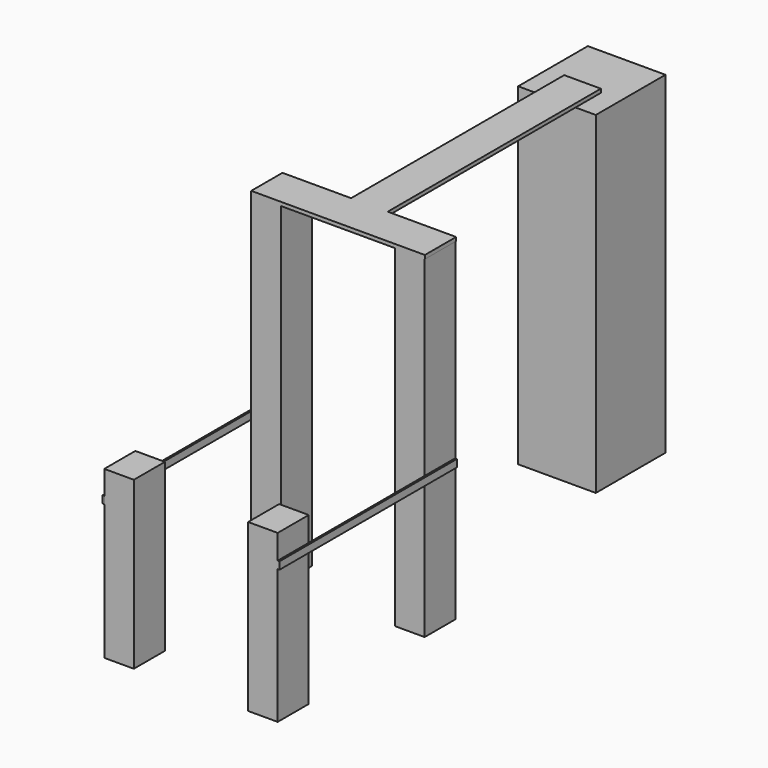
from build123d import *

# Parameters (mm, degrees)
F0_W     = 533.4
F0_H     = 598.17
F1_DEPTH = 1143
F0_W_2   = 203.2
F0_H_2   = 266.7
F2_DEPTH = 1143
F3_W     = 203.2
F3_H     = 266.7
F4_DEPTH = 25.4
F6_W     = 1258.3018835068
F6_H     = 50.8
F6_W_2   = 265.6981164932
F7_DEPTH = 12.7
F5_W     = 1257.3
F5_H     = 50.8
F5_W_2   = 266.7
F8_DEPTH = 12.7


with BuildPart() as f1:
    # F0 (on Top) → F1 (new body)
    with BuildSketch(Plane.XY):
        with Locations((595.63, 3441.827)):
            Rectangle(F0_W, F0_H)
    extrude(amount=F1_DEPTH)

    # F2#3 (add): a face of the model
    f2_3_faces = [f1.faces().sort_by_distance(p)[0] for p in [
        (595.63, 3441.827, 1143),
    ]]
    extrude(f2_3_faces, amount=F2_DEPTH)



with BuildPart() as f1b:
    # F0 (on Top) → F1, piece 2 (new body)
    with BuildSketch(Plane.XY):
        with Locations((1089.66, 1395.222)):
            Rectangle(F0_W_2, F0_H_2)
    extrude(amount=F1_DEPTH)

    # F2#2 (add): a face of the model
    f2_2_faces = [f1b.faces().sort_by_distance(p)[0] for p in [
        (1089.66, 1395.222, 1143),
    ]]
    extrude(f2_2_faces, amount=F2_DEPTH)


with BuildPart() as f1c:
    # F0 (on Top) → F1, piece 3 (new body)
    with BuildSketch(Plane.XY):
        with Locations((101.6, 1395.222)):
            Rectangle(F0_W_2, F0_H_2)
    extrude(amount=F1_DEPTH)

    # F2 (add): a face of the model
    f2_faces = [f1c.faces().sort_by_distance(p)[0] for p in [
        (101.6, 1395.222, 1143),
    ]]
    extrude(f2_faces, amount=F2_DEPTH)


with BuildPart() as f1d:
    # F0 (on Top) → F1, piece 4 (new body)
    with BuildSketch(Plane.XY):
        with Locations((101.6, 133.35)):
            Rectangle(F0_W_2, F0_H_2)
    extrude(amount=F1_DEPTH)


with BuildPart() as f1e:
    # F0 (on Top) → F1, piece 5 (new body)
    with BuildSketch(Plane.XY):
        with Locations((1089.66, 133.35)):
            Rectangle(F0_W_2, F0_H_2)
    extrude(amount=F1_DEPTH)


with BuildPart() as f1_1:
    add(f1.part)

    add(f1b.part)  # F4 merges F1b

    add(f1c.part)  # F4 merges F1c
    # F3 (on face) → F4 (join)
    with BuildSketch(Plane.XY.offset(2286)):
        Polygon((203.2, 1528.572), (203.2, 1261.872), (1192.8584575653, 1261.872), (1192.8584575653, 1530.0824642181), (723.0812907219, 1530.0824642181), (723.0812907219, 3360.0566387177), (471.4600145817, 3360.0566387177), (471.4600145817, 1530.0824642181), (0, 1530.0824642181), (0, 1528.572), align=None)
        with Locations((101.6, 1395.222)):
            Rectangle(F3_W, F3_H)
    extrude(amount=F4_DEPTH)


    add(f1d.part)  # F7 merges F1d
    # F6 (on face) → F7 (join)
    with BuildSketch(Plane(origin=(0, 0, 0), x_dir=(0, -1, 0), z_dir=(-1, 0, 0))):
        with Locations((-895.8509417534, 953.6137751579)):
            Rectangle(F6_W, F6_H)
        with Locations((-133.8509417534, 953.6137751579)):
            Rectangle(F6_W_2, F6_H)
    extrude(amount=F7_DEPTH)


    add(f1e.part)  # F8 merges F1e
    # F5 (on face) → F8 (join)
    with BuildSketch(Plane.YZ.offset(1191.26)):
        with Locations((895.35, 949.7992567062)):
            Rectangle(F5_W, F5_H)
        with Locations((133.35, 949.7992567062)):
            Rectangle(F5_W_2, F5_H)
    extrude(amount=F8_DEPTH)


solid = f1_1.part
